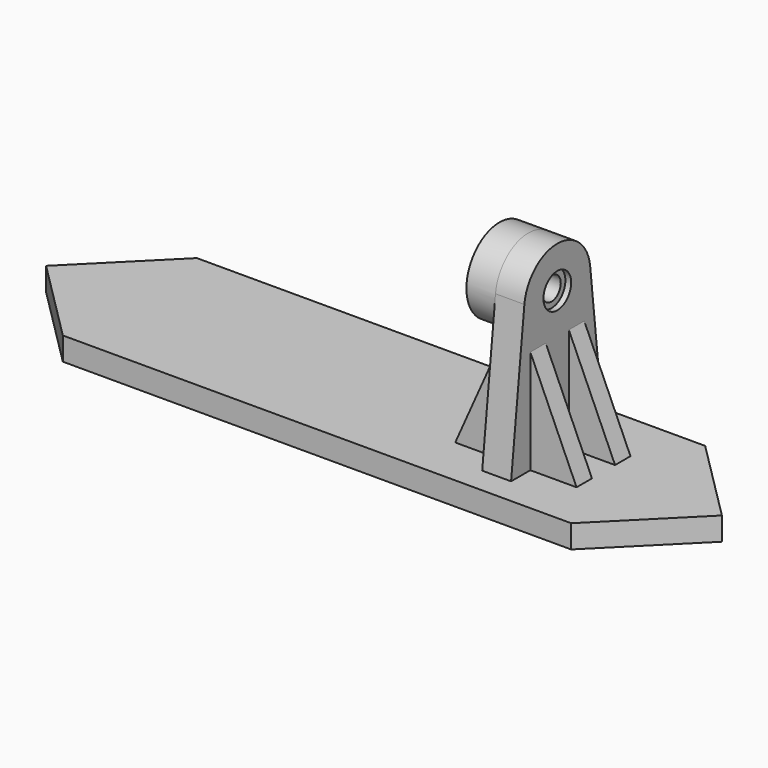
from build123d import *

# Parameters (mm, degrees)
PAD_DEPTH           = 2.4
SKETCH002_R         = 1.2
PAD001_DEPTH        = 3
SKETCH003_R         = 4.3
SKETCH003_R_2       = 2.6
PAD002_DEPTH        = 3
PAD003_DEPTH        = 2
LINEARPATTERN_COUNT = 2
LINEARPATTERN_PITCH = 5
SKETCH006_R         = 1.8
POCKET_DEPTH        = 0.6


with BuildPart() as part:
    # Sketch → Pad (new body)
    with BuildSketch(Plane.XY):
        Polygon((-26.4, 8.7), (26.4, 8.7), (35.1, 0), (26.4, -8.7), (-26.4, -8.7), (-35.1, 0), align=None)
    extrude(amount=PAD_DEPTH)

    # Sketch002 → Pad001 (join)
    with BuildSketch(Plane.YZ.offset(15)):
        with BuildLine():
            Line((-6, 2.4), (6, 2.4))
            Line((6, 2.4), (4.2734913846, 17.8767298872))
            ThreePointArc((4.2734913846, 17.8767298872), (0, 21.7), (-4.2734913846, 17.8767298872))
            Line((-6, 2.4), (-4.2734913846, 17.8767298872))
        make_face()
        with Locations((0, 17.4)):
            Circle(SKETCH002_R, mode=Mode.SUBTRACT)
    extrude(amount=PAD001_DEPTH)

    # Sketch003 (on Face12 of Pad001) → Pad002 (join)
    with BuildSketch(Plane(origin=(15, 0, 0), x_dir=(0, -1, 0), z_dir=(-1, 0, 0))):
        with Locations((0, 17.4)):
            Circle(SKETCH003_R)
        with Locations((0, 17.4)):
            Circle(SKETCH003_R_2, mode=Mode.SUBTRACT)
    extrude(amount=PAD002_DEPTH)

    # Sketch005 → Pad003 (join)
    with BuildSketch(Plane.XZ.offset(1.5)):
        Polygon((10.2, 2.4), (15, 13.2), (15, 2.4), align=None)
        Polygon((18, 13.2), (18, 2.4), (22.8, 2.4), align=None)
    pad003 = extrude(amount=PAD003_DEPTH)

    # LinearPattern: Pad003 ×2
    with Locations(*[(0, i * LINEARPATTERN_PITCH, 0) for i in range(1, LINEARPATTERN_COUNT)]):
        add(pad003)

    # Sketch006 (on Face10 of LinearPattern) → Pocket (cut)
    with BuildSketch(Plane.YZ.offset(18)):
        with Locations((0, 17.4)):
            Circle(SKETCH006_R)
    extrude(amount=-POCKET_DEPTH, mode=Mode.SUBTRACT)


solid = part.part
